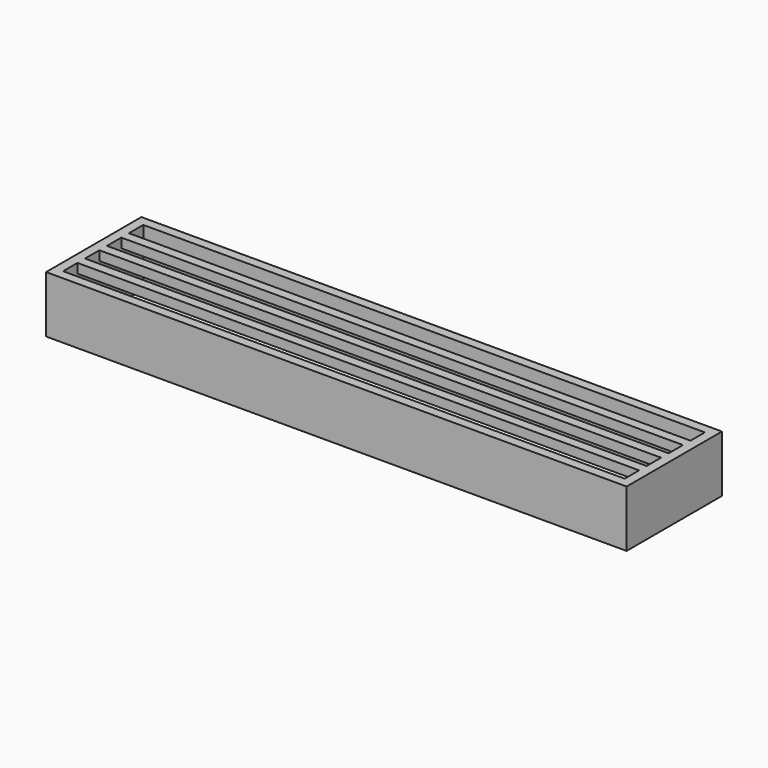
from build123d import *

# Parameters (mm, degrees)
F0_W     = 307
F0_H     = 63
F0_W_2   = 297
F0_H_2   = 53
F3_DEPTH = 30
F2_W     = 297
F2_H     = 5
F4_DEPTH = 5


with BuildPart() as f3:
    # F0 (on Top) → F3 (new body)
    with BuildSketch(Plane.XY):
        Rectangle(F0_W, F0_H)
        Rectangle(F0_W_2, F0_H_2, mode=Mode.SUBTRACT)
    extrude(amount=F3_DEPTH)

    # F2 (on offset) → F4 (join)
    with BuildSketch(Plane.XY.offset(30)):
        with Locations((0, 14.5)):
            Rectangle(F2_W, F2_H)
        Rectangle(F2_W, F2_H)
        with Locations((0, -14.5)):
            Rectangle(F2_W, F2_H)
    extrude(amount=-F4_DEPTH)


solid = f3.part
